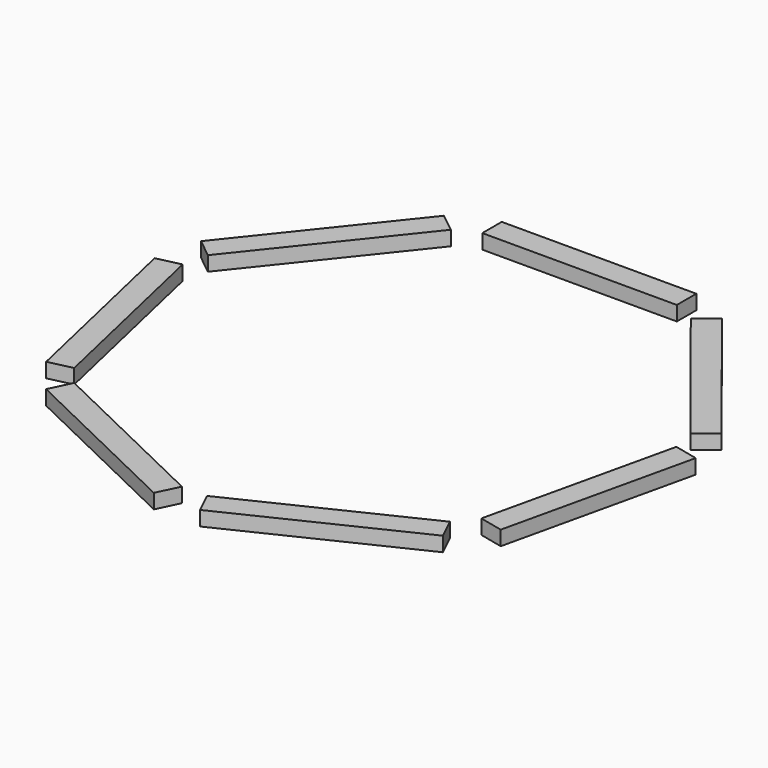
from build123d import *

# Parameters (mm, degrees)
F0_W     = 40
F0_H     = 5
F1_DEPTH = 3


with BuildPart() as f1:
    # F0 (on Top) → F1 (new body)
    with BuildSketch(Plane.XY):
        with Locations((0, 50)):
            Rectangle(F0_W, F0_H)
        Polygon((-49.606791, 13.979136), (-24.667199, 45.252395), (-28.576357, 48.369844), (-53.515949, 17.096585), align=None)
        Polygon((-41.858657, -30.068303), (-50.759495, 8.928814), (-55.634134, 7.816209), (-46.733297, -31.180907), align=None)
        Polygon((-2.5901, -51.473696), (-38.628855, -34.118346), (-40.798274, -38.623191), (-4.759519, -55.97854), align=None)
        Polygon((38.628855, -34.118346), (2.5901, -51.473696), (4.759519, -55.97854), (40.798274, -38.623191), align=None)
        Polygon((50.759495, 8.928814), (41.858657, -30.068303), (46.733297, -31.180907), (55.634134, 7.816209), align=None)
        Polygon((24.667199, 45.252395), (49.606791, 13.979136), (53.515949, 17.096585), (28.576357, 48.369844), align=None)
    extrude(amount=F1_DEPTH)


solid = f1.part
